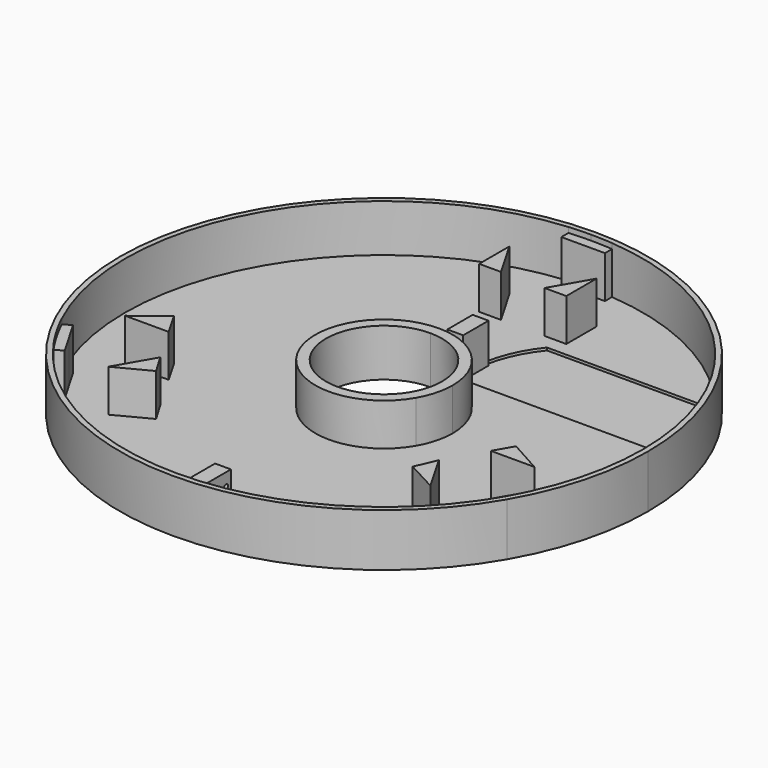
from build123d import *

# Parameters (mm, degrees)
F1_DEPTH  = 10
F2_DEPTH  = 1
F3_DEPTH  = 9
F4_W      = 3
F4_H      = 6
F5_DEPTH  = 7
F7_R      = 0.475
F6_R      = 0.475
F8_DEPTH  = 3
F10_DEPTH = 0.5


with BuildPart() as f1:
    # F0 (on Top) → F1 (new body)
    with BuildSketch(Plane.XY):
        with BuildLine():
            ThreePointArc((-4.1280544247, 48.8258043115), (-2.0658640729, 48.9564317085), (0, 49))
            Line((0, 49), (0, 50))
            ThreePointArc((0, 50), (-43.3012701892, 25), (-43.3012701892, -25))
            Line((-43.3012701892, -25), (-42.4352447854, -24.5))
            ThreePointArc((-42.4352447854, -24.5), (-43.4304455747, -22.6891250863), (-44.3484141063, -20.8379021558))
            ThreePointArc((-44.3484141063, -20.8379021558), (-42.4352447854, 24.5), (-4.1280544247, 48.8258043115))
        make_face()
        with BuildLine():
            Line((43.3012701892, -25), (42.4352447854, -24.5))
            ThreePointArc((42.4352447854, -24.5), (41.3645815018, -26.2673066222), (40.2203596816, -27.9879021558))
            ThreePointArc((40.2203596816, -27.9879021558), (0, -49), (-40.2203596816, -27.9879021558))
            ThreePointArc((-40.2203596816, -27.9879021558), (-41.3645815018, -26.2673066222), (-42.4352447854, -24.5))
            Line((-42.4352447854, -24.5), (-43.3012701892, -25))
            ThreePointArc((-43.3012701892, -25), (0, -50), (43.3012701892, -25))
        make_face()
        with BuildLine():
            Line((0, 50), (0, 49))
            ThreePointArc((0, 49), (2.0658640729, 48.9564317085), (4.1280544247, 48.8258043115))
            ThreePointArc((4.1280544247, 48.8258043115), (36.0782113388, 33.1566383488), (49, 0))
            ThreePointArc((49, 0), (47.8229667169, -10.6753854448), (44.3484141063, -20.8379021558))
            ThreePointArc((44.3484141063, -20.8379021558), (43.4304455747, -22.6891250863), (42.4352447854, -24.5))
            Line((42.4352447854, -24.5), (43.3012701892, -25))
            ThreePointArc((43.3012701892, -25), (48.2962913145, -12.9409522551), (50, 0))
            ThreePointArc((50, 0), (35.3553390593, 35.3553390593), (0, 50))
        make_face()
    extrude(amount=F1_DEPTH)

    # F0 (on Top) → F2 (join)
    with BuildSketch(Plane.XY):
        with BuildLine():
            ThreePointArc((-11.2583302492, -6.5), (-11.2583302492, 6.5), (0, 13))
            Line((0, 13), (0, 32.85))
            Line((0, 32.85), (-4.1280544247, 32.85))
            Line((-4.1280544247, 32.85), (-8.2561088494, 32.85))
            Line((-8.2561088494, 32.85), (-8.2561088494, 40))
            Line((-8.2561088494, 40), (-4.1280544247, 47.15))
            Line((-4.1280544247, 47.15), (-4.1280544247, 48.8258043115))
            ThreePointArc((-4.1280544247, 48.8258043115), (-42.4352447854, 24.5), (-44.3484141063, -20.8379021558))
            Line((-44.3484141063, -20.8379021558), (-42.8971250008, -20))
            Line((-42.8971250008, -20), (-38.7690705761, -12.85))
            Line((-38.7690705761, -12.85), (-33.0666268225, -8.4269223086))
            Line((-33.0666268225, -8.4269223086), (-30.5129617267, -12.85))
            Line((-30.5129617267, -12.85), (-28.4489345143, -16.425))
            Line((-28.4489345143, -16.425), (-11.2583302492, -6.5))
        make_face()
        with BuildLine():
            Line((28.4489345143, -16.425), (11.2583302492, -6.5))
            ThreePointArc((11.2583302492, -6.5), (0, -13), (-11.2583302492, -6.5))
            Line((-11.2583302492, -6.5), (-28.4489345143, -16.425))
            Line((-28.4489345143, -16.425), (-26.384907302, -20))
            Line((-26.384907302, -20), (-24.1253543645, -23.8167438656))
            Line((-24.1253543645, -23.8167438656), (-30.5129617267, -27.15))
            Line((-30.5129617267, -27.15), (-38.7690705761, -27.15))
            Line((-38.7690705761, -27.15), (-40.2203596816, -27.9879021558))
            ThreePointArc((-40.2203596816, -27.9879021558), (0, -49), (40.2203596816, -27.9879021558))
            Line((40.2203596816, -27.9879021558), (38.7690705761, -27.15))
            Line((38.7690705761, -27.15), (30.5129617267, -27.15))
            Line((30.5129617267, -27.15), (24.6460232884, -24.0091364831))
            Line((24.6460232884, -24.0091364831), (26.384907302, -20))
            Line((26.384907302, -20), (28.4489345143, -16.425))
        make_face()
        with BuildLine():
            Line((0, 32.85), (0, 13))
            ThreePointArc((0, 13), (9.1923881554, 9.1923881554), (13, 0))
            ThreePointArc((13, 0), (12.5570357418, -3.3646475863), (11.2583302492, -6.5))
            Line((11.2583302492, -6.5), (28.4489345143, -16.425))
            Line((28.4489345143, -16.425), (30.5129617267, -12.85))
            Line((30.5129617267, -12.85), (32.5203803987, -9.3730488681))
            Line((32.5203803987, -9.3730488681), (38.7690705761, -12.85))
            Line((38.7690705761, -12.85), (42.8971250008, -20))
            Line((42.8971250008, -20), (44.3484141063, -20.8379021558))
            ThreePointArc((44.3484141063, -20.8379021558), (47.8229667169, -10.6753854448), (49, 0))
            ThreePointArc((49, 0), (36.0782113388, 33.1566383488), (4.1280544247, 48.8258043115))
            Line((4.1280544247, 48.8258043115), (4.1280544247, 47.15))
            Line((4.1280544247, 47.15), (8.2561088494, 40))
            Line((8.2561088494, 40), (8.2561088494, 32.85))
            Line((8.2561088494, 32.85), (4.1280544247, 32.85))
            Line((4.1280544247, 32.85), (0, 32.85))
        make_face()
        Polygon((-40.8330977884, -23.575), (-28.4489345143, -16.425), (-30.5129617267, -12.85), (-38.7690705761, -12.85), (-42.8971250008, -20), align=None)
        Polygon((-26.384907302, -20), (-28.4489345143, -16.425), (-40.8330977884, -23.575), (-38.7690705761, -27.15), (-30.5129617267, -27.15), align=None)
        Polygon((30.5129617267, -12.85), (28.4489345143, -16.425), (40.8330977884, -23.575), (42.8971250008, -20), (38.7690705761, -12.85), align=None)
        Polygon((40.8330977884, -23.575), (28.4489345143, -16.425), (26.384907302, -20), (30.5129617267, -27.15), (38.7690705761, -27.15), align=None)
        Polygon((0, 47.15), (0, 32.85), (4.1280544247, 32.85), (8.2561088494, 40), (4.1280544247, 47.15), align=None)
        Polygon((-4.1280544247, 32.85), (0, 32.85), (0, 47.15), (-4.1280544247, 47.15), (-8.2561088494, 40), align=None)
    extrude(amount=F2_DEPTH)

    # F0 (on Top) → F3 (join)
    with BuildSketch(Plane.XY):
        with BuildLine():
            ThreePointArc((-9.5262794416, -5.5), (-9.5262794416, 5.5), (0, 11))
            Line((0, 11), (0, 13))
            ThreePointArc((0, 13), (-11.2583302492, 6.5), (-11.2583302492, -6.5))
            Line((-11.2583302492, -6.5), (-9.5262794416, -5.5))
        make_face()
        with BuildLine():
            Line((11.2583302492, -6.5), (9.5262794416, -5.5))
            ThreePointArc((9.5262794416, -5.5), (0, -11), (-9.5262794416, -5.5))
            Line((-9.5262794416, -5.5), (-11.2583302492, -6.5))
            ThreePointArc((-11.2583302492, -6.5), (0, -13), (11.2583302492, -6.5))
        make_face()
        with BuildLine():
            ThreePointArc((0, 11), (7.7781745931, 7.7781745931), (11, 0))
            ThreePointArc((11, 0), (10.6251840892, -2.8470094961), (9.5262794416, -5.5))
            Line((9.5262794416, -5.5), (11.2583302492, -6.5))
            ThreePointArc((11.2583302492, -6.5), (12.5570357418, -3.3646475863), (13, 0))
            ThreePointArc((13, 0), (9.1923881554, 9.1923881554), (0, 13))
            Line((0, 13), (0, 11))
        make_face()
        Polygon((-24.1253543645, -23.8167438656), (-26.384907302, -20), (-30.5129617267, -27.15), align=None)
        with BuildLine():
            Line((-38.7690705761, -27.15), (-40.8330977884, -23.575))
            Line((-40.8330977884, -23.575), (-42.4352447854, -24.5))
            ThreePointArc((-42.4352447854, -24.5), (-41.3645815018, -26.2673066222), (-40.2203596816, -27.9879021558))
            Line((-40.2203596816, -27.9879021558), (-38.7690705761, -27.15))
        make_face()
        with BuildLine():
            Line((-42.4352447854, -24.5), (-40.8330977884, -23.575))
            Line((-40.8330977884, -23.575), (-42.8971250008, -20))
            Line((-42.8971250008, -20), (-44.3484141063, -20.8379021558))
            ThreePointArc((-44.3484141063, -20.8379021558), (-43.4304455747, -22.6891250863), (-42.4352447854, -24.5))
        make_face()
        Polygon((-38.7690705761, -12.85), (-30.5129617267, -12.85), (-33.0666268225, -8.4269223086), align=None)
        Polygon((8.2561088494, 40), (4.1280544247, 32.85), (8.2561088494, 32.85), align=None)
        Polygon((-8.2561088494, 32.85), (-4.1280544247, 32.85), (-8.2561088494, 40), align=None)
        with BuildLine():
            Line((0, 49), (0, 47.15))
            Line((0, 47.15), (4.1280544247, 47.15))
            Line((4.1280544247, 47.15), (4.1280544247, 48.8258043115))
            ThreePointArc((4.1280544247, 48.8258043115), (2.0658640729, 48.9564317085), (0, 49))
        make_face()
        with BuildLine():
            Line((-4.1280544247, 47.15), (0, 47.15))
            Line((0, 47.15), (0, 49))
            ThreePointArc((0, 49), (-2.0658640729, 48.9564317085), (-4.1280544247, 48.8258043115))
            Line((-4.1280544247, 48.8258043115), (-4.1280544247, 47.15))
        make_face()
        Polygon((30.5129617267, -27.15), (26.384907302, -20), (24.6460232884, -24.0091364831), align=None)
        Polygon((32.5203803987, -9.3730488681), (30.5129617267, -12.85), (38.7690705761, -12.85), align=None)
        with BuildLine():
            Line((42.8971250008, -20), (40.8330977884, -23.575))
            Line((40.8330977884, -23.575), (42.4352447854, -24.5))
            ThreePointArc((42.4352447854, -24.5), (43.4304455747, -22.6891250863), (44.3484141063, -20.8379021558))
            Line((44.3484141063, -20.8379021558), (42.8971250008, -20))
        make_face()
        with BuildLine():
            Line((42.4352447854, -24.5), (40.8330977884, -23.575))
            Line((40.8330977884, -23.575), (38.7690705761, -27.15))
            Line((38.7690705761, -27.15), (40.2203596816, -27.9879021558))
            ThreePointArc((40.2203596816, -27.9879021558), (41.3645815018, -26.2673066222), (42.4352447854, -24.5))
        make_face()
    extrude(amount=F3_DEPTH)

    # F4 (on face) → F5 (join)
    with BuildSketch(Plane.XY.offset(1)):
        with Locations((1.5, -43)):
            Rectangle(F4_W, F4_H)
        with Locations((1.5, 18)):
            Rectangle(F4_W, F4_H)
    extrude(amount=F5_DEPTH)

    # F7 (on face) + F6 (on face) → F8 (cut)
    with BuildSketch(Plane.YZ.offset(3)):
        with Locations((26.4671016484, 6.5815430135)):
            Circle(F7_R)
        with Locations((29.4671016484, 6.5815430135)):
            Circle(F7_R)
    with BuildSketch(Plane.YZ.offset(3)):
        with Locations((-44.1599413753, 5.525)):
            Circle(F6_R)
        with Locations((-41.1599413753, 5.525)):
            Circle(F6_R)
    extrude(amount=-F8_DEPTH, mode=Mode.SUBTRACT)

    # F9 (on face) → F10 (cut)
    with BuildSketch(Plane.XY.offset(1)):
        with BuildLine():
            Line((6.7339187528, 28.548197319), (37.6344041859, 28.548197319))
            ThreePointArc((37.6344041859, 28.548197319), (36.9979768258, 29.3872318901), (36.3160403253, 30.1897164106))
            Line((36.3160403253, 30.1897164106), (8.0522826134, 30.1897164106))
            ThreePointArc((8.0522826134, 30.1897164106), (7.3703461129, 29.3872318901), (6.7339187528, 28.548197319))
        make_face()
        with BuildLine():
            ThreePointArc((37.6344041859, 28.548197319), (40.2749686876, 23.2968408447), (41.1841614693, 17.4897164106))
            ThreePointArc((41.1841614693, 17.4897164106), (41.1704659003, 16.7684369526), (41.1293989371, 16.048197319))
            ThreePointArc((41.1293989371, 16.048197319), (41.0445206049, 15.1904005824), (40.9208233919, 14.3373363574))
            Line((40.9208233919, 14.3373363574), (41.9341614693, 14.3373363574))
            ThreePointArc((41.9341614693, 14.3373363574), (42.1215635067, 15.9085775806), (42.1841614693, 17.4897164106))
            ThreePointArc((42.1841614693, 17.4897164106), (41.0123963087, 24.2349052764), (37.6344041859, 30.1897164106))
            Line((37.6344041859, 30.1897164106), (36.3160403253, 30.1897164106))
            ThreePointArc((36.3160403253, 30.1897164106), (36.9979768258, 29.3872318901), (37.6344041859, 28.548197319))
        make_face()
        with BuildLine():
            ThreePointArc((40.9208233919, 14.3373363574), (41.0445206049, 15.1904005824), (41.1293989371, 16.048197319))
            Line((41.1293989371, 16.048197319), (3.2389240016, 16.048197319))
            ThreePointArc((3.2389240016, 16.048197319), (3.3238023338, 15.1904005824), (3.4474995468, 14.3373363574))
            Line((3.4474995468, 14.3373363574), (40.9208233919, 14.3373363574))
        make_face()
        with BuildLine():
            ThreePointArc((3.2389240016, 16.048197319), (3.885943953, 22.6058903447), (6.7339187528, 28.548197319))
            ThreePointArc((6.7339187528, 28.548197319), (7.3703461129, 29.3872318901), (8.0522826134, 30.1897164106))
            Line((8.0522826134, 30.1897164106), (6.7339187528, 30.1897164106))
            ThreePointArc((6.7339187528, 30.1897164106), (4.0233858738, 25.867438641), (2.4946234066, 21))
            Line((2.4946234066, 21), (3, 21))
            Line((3, 21), (3, 15))
            Line((3, 15), (2.3397337327, 15))
            ThreePointArc((2.3397337327, 15), (2.3841751632, 14.668273114), (2.4341614693, 14.3373363574))
            Line((2.4341614693, 14.3373363574), (3.4474995468, 14.3373363574))
            ThreePointArc((3.4474995468, 14.3373363574), (3.3238023338, 15.1904005824), (3.2389240016, 16.048197319))
        make_face()
        with BuildLine():
            ThreePointArc((41.1293989371, 16.048197319), (41.1704659003, 16.7684369526), (41.1841614693, 17.4897164106))
            ThreePointArc((41.1841614693, 17.4897164106), (40.2749686876, 23.2968408447), (37.6344041859, 28.548197319))
            Line((37.6344041859, 28.548197319), (6.7339187528, 28.548197319))
            ThreePointArc((6.7339187528, 28.548197319), (3.885943953, 22.6058903447), (3.2389240016, 16.048197319))
            Line((3.2389240016, 16.048197319), (41.1293989371, 16.048197319))
        make_face()
    extrude(amount=-F10_DEPTH, mode=Mode.SUBTRACT)


solid = f1.part
